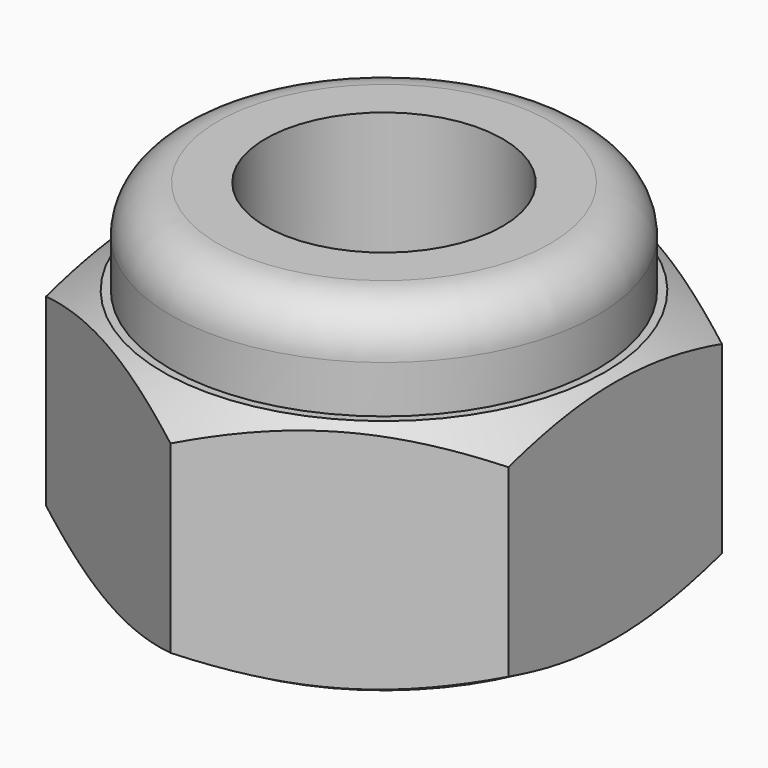
from build123d import *

# Parameters (mm, degrees)
F0_R     = 1.5
F1_DEPTH = 3
F4_W     = 1.2
F4_H     = 1.2
F6_R     = 0.6


with BuildPart() as f1:
    # F0 (on Top) → F1 (new body)
    with BuildSketch(Plane.XY):
        Polygon((2.925, -1.68875), (2.925, 1.68875), (0, 3.377499), (-2.925, 1.68875), (-2.925, -1.68875), (0, -3.377499), align=None)
        Circle(F0_R, mode=Mode.SUBTRACT)
    extrude(amount=F1_DEPTH)

    # F2 (on Front) → F3 (revolve, cut)
    with BuildSketch(Plane.XZ):
        Polygon((4.878461, 3), (2.8, 3), (4.878461, 1.8), align=None)
        Polygon((2.8, 0), (4.878461, 0), (4.878461, 1.2), align=None)
    revolve(axis=Axis((0, 0, 1.5), (0, 0, 1)), mode=Mode.SUBTRACT)

    # F4 (on Front) → F5 (revolve)
    with BuildSketch(Plane.XZ):
        with Locations((2.1, 3.6)):
            Rectangle(F4_W, F4_H)
    revolve(axis=Axis((0, 0, 1.5), (0, 0, 1)))

    # F6
    f6_edges = [f1.edges().sort_by_distance(p)[0] for p in [
        (-2.7, 0, 4.2),
    ]]
    fillet(f6_edges, radius=F6_R)


solid = f1.part
